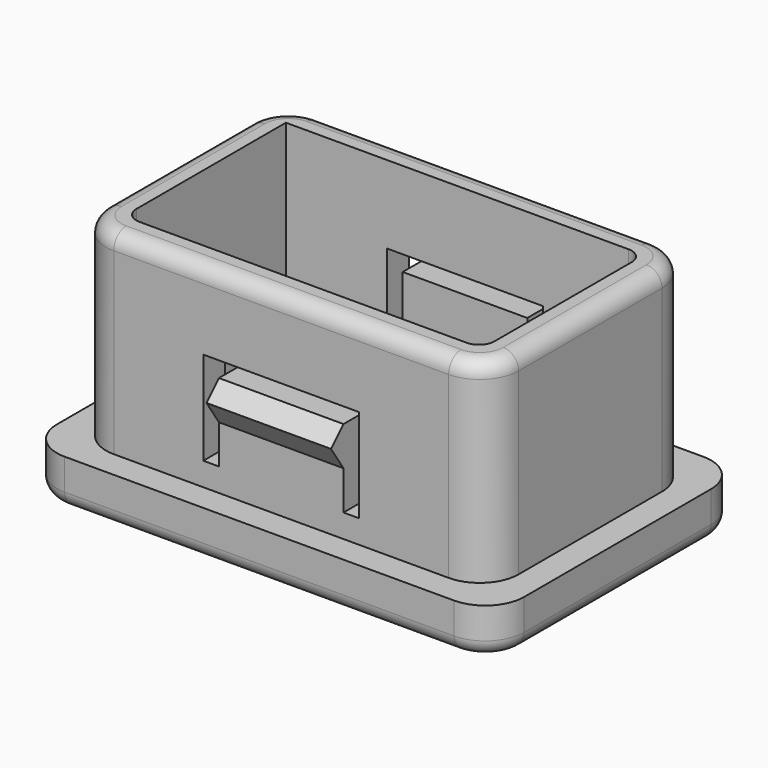
from build123d import *

# Parameters (mm, degrees)
F0_W           = 60
F0_H           = 40
F1_DEPTH       = 2
F2_W           = 60
F2_H           = 40
F2_W_2         = 46
F2_H_2         = 26
F3_DEPTH       = 4
F4_W           = 53
F4_H           = 33
F4_W_2         = 46
F4_H_2         = 26
F5_DEPTH       = 25
F6_R           = 5
F7_R           = 2
F9_DEPTH       = 36.501
F11_DEPTH      = 8
F11_DEPTH_BACK = 8


with BuildPart() as f1:
    # F0 (on Top) → F1 (new body)
    with BuildSketch(Plane.XY):
        Rectangle(F0_W, F0_H)
    extrude(amount=F1_DEPTH)

    # F2 (on face) → F3 (join)
    with BuildSketch(Plane.XY.offset(2)):
        Rectangle(F2_W, F2_H)
        Rectangle(F2_W_2, F2_H_2, mode=Mode.SUBTRACT)
    extrude(amount=F3_DEPTH)

    # F4 (on face) → F5 (join)
    with BuildSketch(Plane.XY.offset(6)):
        Rectangle(F4_W, F4_H)
        Rectangle(F4_W_2, F4_H_2, mode=Mode.SUBTRACT)
    extrude(amount=F5_DEPTH)

    # F6
    f6_edges = [f1.edges().sort_by_distance(p)[0] for p in [
        (-26.5, -16.5, 18.5),
        (26.5, -16.5, 18.5),
        (-26.5, 16.5, 18.5),
        (-30, -20, 3),
        (30, -20, 3),
        (-30, 20, 3),
        (30, 20, 3),
        (26.5, 16.5, 18.5),
    ]]
    fillet(f6_edges, radius=F6_R)

    # F7
    f7_edges = [f1.edges().sort_by_distance(p)[0] for p in [
        (0, 16.5, 31),
        (0, 20, 0),
        (23, -13, 16.5),
        (-23, -13, 16.5),
        (23, 13, 16.5),
        (23, 0, 2),
        (0, 13, 2),
        (0, -13, 2),
        (-23, 0, 2),
    ]]
    fillet(f7_edges, radius=F7_R)

    # F8 (on face) → F9 (cut, through all)
    with BuildSketch(Plane.XZ.offset(16.5)):
        Polygon((10, 21), (-10, 21), (-10, 9), (-8, 9), (-8, 19), (8, 19), (8, 9), (10, 9), align=None)
    extrude(amount=-F9_DEPTH, mode=Mode.SUBTRACT)

    # F10 (on Right) → F11 (join, two sides)
    with BuildSketch(Plane.YZ) as f11_sk:
        Polygon((-18.5, 17), (-16.5, 14), (-16.5, 19), align=None)
        Polygon((16.5, 19), (16.5, 14), (18.5, 17), align=None)
    extrude(amount=F11_DEPTH)
    extrude(f11_sk.sketch, amount=-F11_DEPTH_BACK)


solid = f1.part
